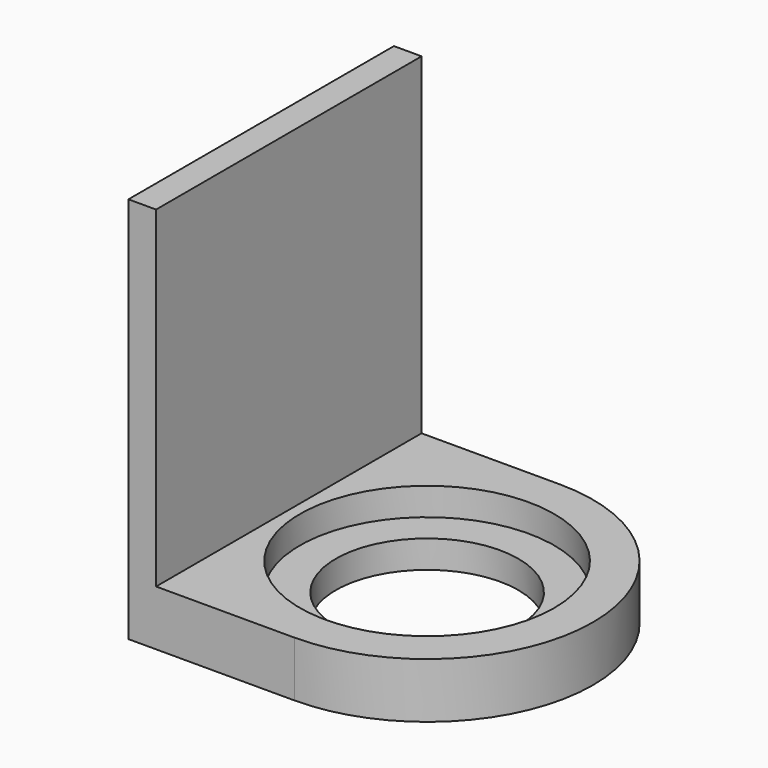
from build123d import *

# Parameters (mm, degrees)
F1_DEPTH = 12.7
F2_R     = 29.21
F3_DEPTH = 6.35
F4_R     = 20.955
F5_DEPTH = 6.35
F6_W     = 6.35
F6_H     = 76.2
F7_DEPTH = 76.2


with BuildPart() as f1:
    # F0 (on Top) → F1 (new body)
    with BuildSketch(Plane.XY):
        with BuildLine():
            ThreePointArc((0, -38.1), (38.1, 0), (0, 38.1))
            Line((0, 38.1), (-38.1, 38.1))
            Line((-38.1, 38.1), (-38.1, -38.1))
            Line((-38.1, -38.1), (0, -38.1))
        make_face()
    extrude(amount=F1_DEPTH)

    # F2 (on face) → F3 (cut)
    with BuildSketch(Plane.XY.offset(12.7)):
        Circle(F2_R)
    extrude(amount=-F3_DEPTH, mode=Mode.SUBTRACT)

    # F4 (on face) → F5 (cut)
    with BuildSketch(Plane.XY.offset(6.35)):
        Circle(F4_R)
    extrude(amount=-F5_DEPTH, mode=Mode.SUBTRACT)

    # F6 (on face) → F7 (join)
    with BuildSketch(Plane.XY.offset(12.7)):
        with Locations((-34.925, 0)):
            Rectangle(F6_W, F6_H)
    extrude(amount=F7_DEPTH)


solid = f1.part
